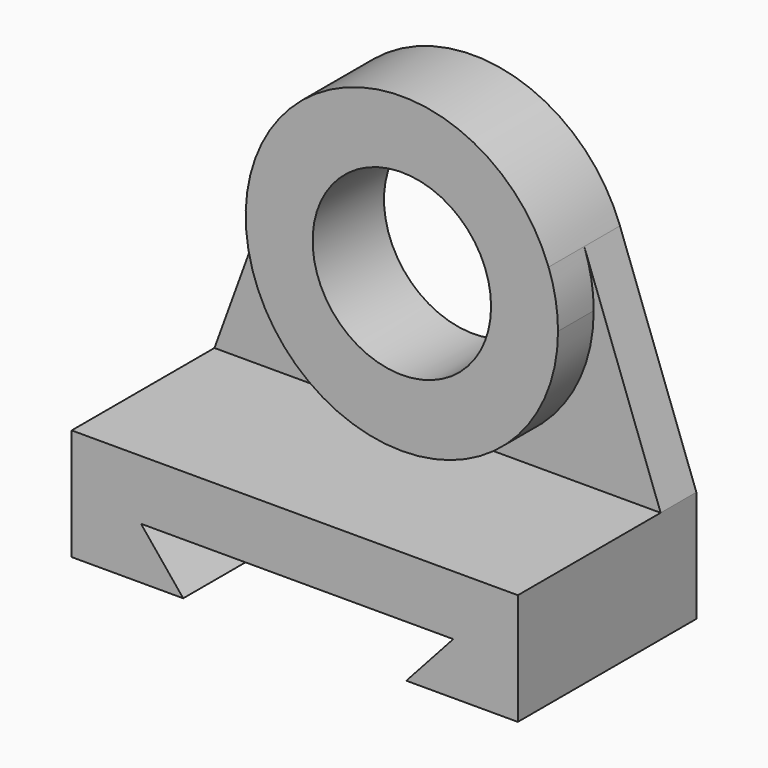
from build123d import *

# Parameters (mm, degrees)
F1_DEPTH = 25.4
F2_DEPTH = 127
F0_R     = 50.8
F3_DEPTH = 50.8


with BuildPart() as f1:
    # F0 (on Front) → F1 (new body)
    with BuildSketch(Plane.XZ):
        with BuildLine():
            Line((43.469799, 119.328859), (0, 0))
            Line((0, 0), (127, 0))
            ThreePointArc((127, 0), (54.170282, 37.919198), (43.469799, 119.328859))
        make_face()
        with BuildLine():
            ThreePointArc((215.9, 88.9), (189.861793, 26.038207), (127, 0))
            Line((127, 0), (254, 0))
            Line((254, 0), (210.530201, 119.328859))
            ThreePointArc((210.530201, 119.328859), (214.547258, 104.349516), (215.9, 88.9))
        make_face()
    extrude(amount=F1_DEPTH)


with BuildPart() as f2:
    # F0 (on Front) → F2 (new body)
    with BuildSketch(Plane.XZ):
        Polygon((127, 0), (0, 0), (0, -63.5), (63.5, -63.5), (39.444682, -33.954244), (217.244682, -33.954244), (190.5, -63.5), (254, -63.5), (254, 0), align=None)
    extrude(amount=F2_DEPTH)


with BuildPart() as f3:
    # F0 (on Front) → F3 (new body)
    with BuildSketch(Plane.XZ):
        with BuildLine():
            ThreePointArc((43.469799, 119.328859), (54.170282, 37.919198), (127, 0))
            ThreePointArc((127, 0), (189.861793, 26.038207), (215.9, 88.9))
            ThreePointArc((215.9, 88.9), (214.547258, 104.349516), (210.530201, 119.328859))
            ThreePointArc((210.530201, 119.328859), (127, 177.8), (43.469799, 119.328859))
        make_face()
        with Locations((127, 88.9)):
            Circle(F0_R, mode=Mode.SUBTRACT)
    extrude(amount=F3_DEPTH)


solid = Compound([f1.part, f2.part, f3.part])
